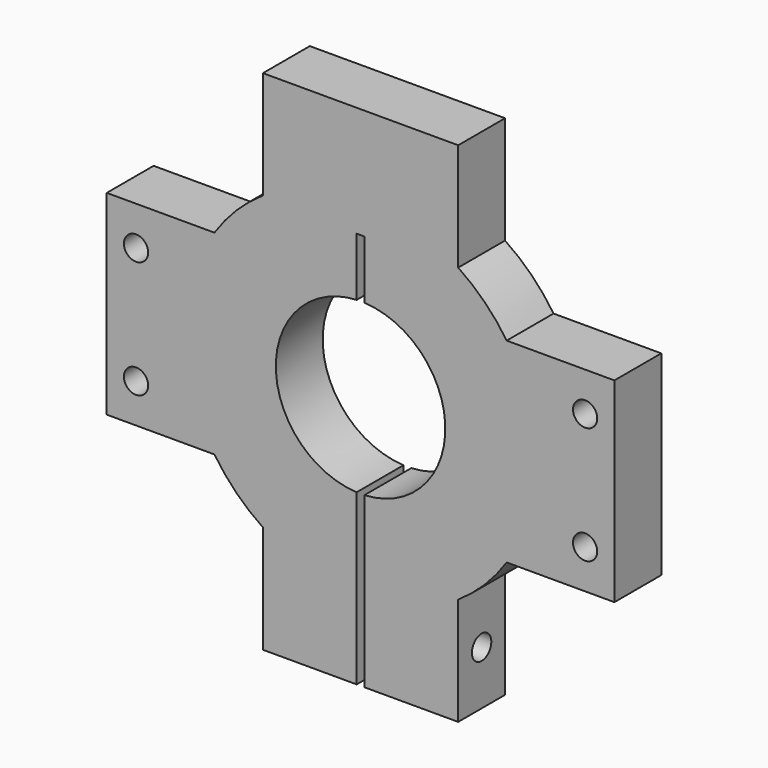
from build123d import *

# Parameters (mm, degrees)
F1_DEPTH = 15
F2_R     = 3.1
F3_DEPTH = 25
F4_R     = 3.1
F5_DEPTH = 56.6


with BuildPart() as f1:
    # F0 (on Front) → F1 (new body)
    with BuildSketch(Plane.XZ):
        with BuildLine():
            Line((65, 25), (37.416574, 25))
            ThreePointArc((37.416574, 25), (31.819805, 31.819805), (25, 37.416574))
            Line((25, 37.416574), (25, 65))
            Line((25, 65), (1, 65))
            Line((1, 65), (-1, 65))
            Line((-1, 65), (-25, 65))
            Line((-25, 65), (-25, 37.416574))
            ThreePointArc((-25, 37.416574), (-31.819805, 31.819805), (-37.416574, 25))
            Line((-37.416574, 25), (-65, 25))
            Line((-65, 25), (-65, -25))
            Line((-65, -25), (-37.416574, -25))
            ThreePointArc((-37.416574, -25), (-31.819805, -31.819805), (-25, -37.416574))
            Line((-25, -37.416574), (-25, -65))
            Line((-25, -65), (-1, -65))
            Line((-1, -65), (-1, -21.676946))
            ThreePointArc((-1, -21.676946), (-21.7, 0), (-1, 21.676946))
            Line((-1, 21.676946), (-1, 36.615141))
            Line((-1, 36.615141), (1, 36.615141))
            Line((1, 36.615141), (1, 21.676946))
            ThreePointArc((1, 21.676946), (21.7, 0), (1, -21.676946))
            Line((1, -21.676946), (1, -65))
            Line((1, -65), (25, -65))
            Line((25, -65), (25, -37.416574))
            ThreePointArc((25, -37.416574), (31.819805, -31.819805), (37.416574, -25))
            Line((37.416574, -25), (65, -25))
            Line((65, -25), (65, 25))
        make_face()
    extrude(amount=F1_DEPTH)

    # F2 (on face) → F3 (cut)
    with BuildSketch(Plane.XZ.offset(15)):
        with Locations((57.5, 15)):
            Circle(F2_R)
        with Locations((57.5, -15)):
            Circle(F2_R)
        with Locations((-57.5, 15)):
            Circle(F2_R)
        with Locations((-57.5, -15)):
            Circle(F2_R)
    extrude(amount=-F3_DEPTH, mode=Mode.SUBTRACT)

    # F4 (on face) → F5 (cut)
    with BuildSketch(Plane(origin=(-25, 0, 0), x_dir=(0, -1, 0), z_dir=(-1, 0, 0))):
        with Locations((7.5, -51.208287)):
            Circle(F4_R)
    extrude(amount=-F5_DEPTH, mode=Mode.SUBTRACT)


solid = f1.part
